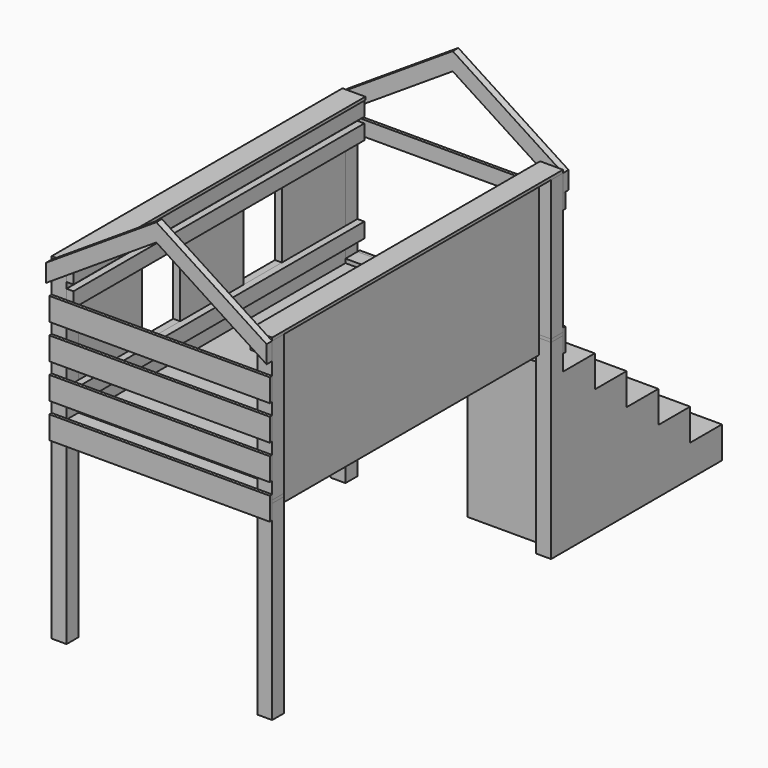
from build123d import *

# Parameters (mm, degrees)
F0_W      = 95.25
F0_H      = 95.25
F1_DEPTH  = 2133.6
F3_W      = 95.25
F3_H      = 95.25
F4_DEPTH  = 19.05
F3_W_2    = 1219.2
F3_H_2    = 2133.6
F5_W      = 44.45
F5_H      = 2324.1
F6_DEPTH  = 95.25
F8_W      = 44.45
F8_H      = 2324.1
F9_DEPTH  = 95.25
F11_W     = 44.45
F11_H     = 2324.1
F12_DEPTH = 95.25
F13_W     = 2133.6
F13_H     = 133.35
F14_DEPTH = 25.4
F15_W     = 1219.2
F15_H     = 95.25
F16_DEPTH = 44.45
F17_W     = 44.45
F17_H     = 2324.1
F18_DEPTH = 95.25
F20_DEPTH = 44.45
F22_DEPTH = 44.45
F23_W     = 1409.7
F23_H     = 146.05
F24_DEPTH = 19.05
F25_W     = 2133.6
F25_H     = 1009.65
F26_DEPTH = 19.05
F27_W     = 1314.45
F27_H     = 95.25
F28_DEPTH = 19.05
F27_H_2   = 146.05
F29_W     = 146.05
F29_H     = 2324.1
F30_DEPTH = 19.05
F32_DEPTH = 609.6
F34_DEPTH = 609.6
F35_W     = 393.7
F35_H     = 546.1
F35_W_2   = 304.8
F35_H_2   = 457.2
F36_DEPTH = 19.05


with BuildPart() as f1:
    # F0 (on Top) → F1 (new body)
    with BuildSketch(Plane.XY):
        with Locations((47.625, 47.625)):
            Rectangle(F0_W, F0_H)
    extrude(amount=F1_DEPTH)


with BuildPart() as f1b:
    # F0 (on Top) → F1, piece 2 (new body)
    with BuildSketch(Plane.XY):
        with Locations((1362.075, 47.625)):
            Rectangle(F0_W, F0_H)
    extrude(amount=F1_DEPTH)

    # F31 (on face) → F32 (join)
    with BuildSketch(Plane.YZ.offset(1409.7)):
        Polygon((349.25, 1016), (95.25, 1016), (95.25, 0), (1365.25, 0), (1365.25, 203.2), (1111.25, 203.2), (1111.25, 406.4), (857.25, 406.4), (857.25, 609.6), (603.25, 609.6), (603.25, 812.8), (349.25, 812.8), align=None)
    extrude(amount=-F32_DEPTH)


with BuildPart() as f1c:
    # F0 (on Top) → F1, piece 3 (new body)
    with BuildSketch(Plane.XY):
        with Locations((1362.075, -2181.225)):
            Rectangle(F0_W, F0_H)
    extrude(amount=F1_DEPTH)


with BuildPart() as f1d:
    # F0 (on Top) → F1, piece 4 (new body)
    with BuildSketch(Plane.XY):
        with Locations((47.625, -2181.225)):
            Rectangle(F0_W, F0_H)
    extrude(amount=F1_DEPTH)


with BuildPart() as f4:
    # F3 (on offset) → F4 (new body)
    with BuildSketch(Plane.XY.offset(1219.2)):
        with Locations((47.625, -2181.225)):
            Rectangle(F3_W, F3_H)
    extrude(amount=F4_DEPTH)


with BuildPart() as f4b:
    # F3 (on offset) → F4, piece 2 (new body)
    with BuildSketch(Plane.XY.offset(1219.2)):
        with Locations((47.625, 47.625)):
            Rectangle(F3_W, F3_H)
    extrude(amount=F4_DEPTH)


with BuildPart() as f4c:
    # F3 (on offset) → F4, piece 3 (new body)
    with BuildSketch(Plane.XY.offset(1219.2)):
        with Locations((1362.075, 47.625)):
            Rectangle(F3_W, F3_H)
    extrude(amount=F4_DEPTH)


with BuildPart() as f4d:
    # F3 (on offset) → F4, piece 4 (new body)
    with BuildSketch(Plane.XY.offset(1219.2)):
        with Locations((1362.075, -2181.225)):
            Rectangle(F3_W, F3_H)
    extrude(amount=F4_DEPTH)


with BuildPart() as f4e:
    # F3 (on offset) → F4, piece 5 (new body)
    with BuildSketch(Plane.XY.offset(1219.2)):
        with Locations((704.85, -1066.8)):
            Rectangle(F3_W_2, F3_H_2)
    extrude(amount=F4_DEPTH)


with BuildPart() as f6:
    # F5 (on offset) → F6 (new body)
    with BuildSketch(Plane.XY.offset(1219.2)):
        with Locations((117.475, -1066.8)):
            Rectangle(F5_W, F5_H)
    extrude(amount=-F6_DEPTH)


with BuildPart() as f6b:
    # F5 (on offset) → F6, piece 2 (new body)
    with BuildSketch(Plane.XY.offset(1219.2)):
        with Locations((1292.225, -1066.8)):
            Rectangle(F5_W, F5_H)
    extrude(amount=-F6_DEPTH)


with BuildPart() as f9:
    # F8 (on offset) → F9 (new body)
    with BuildSketch(Plane.XY.offset(1447.8)):
        with Locations((117.475, -1066.8)):
            Rectangle(F8_W, F8_H)
    extrude(amount=-F9_DEPTH)


with BuildPart() as f12:
    # F11 (on offset) → F12 (new body)
    with BuildSketch(Plane.XY.offset(1905)):
        with Locations((117.475, -1066.8)):
            Rectangle(F11_W, F11_H)
    extrude(amount=F12_DEPTH)


with BuildPart() as f14:
    # F13 (on face) → F14 (new body)
    with BuildSketch(Plane(origin=(95.25, 0, 0), x_dir=(0, -1, 0), z_dir=(-1, 0, 0))):
        with Locations((1066.8, 2066.925)):
            Rectangle(F13_W, F13_H)
        Polygon((2133.6, 2000.25), (0, 2000.25), (0, 1905), (508, 1905), (812.8, 1905), (1320.8, 1905), (1625.6, 1905), (2133.6, 1905), align=None)
        Polygon((508, 1905), (0, 1905), (0, 1117.6), (2133.6, 1117.6), (2133.6, 1905), (1625.6, 1905), (1625.6, 1447.8), (1320.8, 1447.8), (1320.8, 1905), (812.8, 1905), (812.8, 1447.8), (508, 1447.8), align=None)
    extrude(amount=F14_DEPTH)

    # F35 (on face) → F36 (join)
    with BuildSketch(Plane(origin=(69.85, 0, 0), x_dir=(0, -1, 0), z_dir=(-1, 0, 0))):
        with Locations((660.4, 1676.4)):
            Rectangle(F35_W, F35_H)
        with Locations((660.4, 1676.4)):
            Rectangle(F35_W_2, F35_H_2, mode=Mode.SUBTRACT)
        with Locations((1473.2, 1676.4)):
            Rectangle(F35_W, F35_H)
        with Locations((1473.2, 1676.4)):
            Rectangle(F35_W_2, F35_H_2, mode=Mode.SUBTRACT)
    extrude(amount=F36_DEPTH)


with BuildPart() as f16:
    # F15 (on offset) → F16 (new body)
    with BuildSketch(Plane.XY.offset(1219.2)):
        with Locations((704.85, 47.625)):
            Rectangle(F15_W, F15_H)
    extrude(amount=F16_DEPTH)


with BuildPart() as f16b:
    # F15 (on offset) → F16, piece 2 (new body)
    with BuildSketch(Plane.XY.offset(1219.2)):
        with Locations((704.85, -2181.225)):
            Rectangle(F15_W, F15_H)
    extrude(amount=F16_DEPTH)


with BuildPart() as f18:
    # F17 (on face) → F18 (new body)
    with BuildSketch(Plane.XY.offset(2133.6)):
        with Locations((117.475, -1066.8)):
            Rectangle(F17_W, F17_H)
    extrude(amount=-F18_DEPTH)


with BuildPart() as f18b:
    # F17 (on face) → F18, piece 2 (new body)
    with BuildSketch(Plane.XY.offset(2133.6)):
        with Locations((1292.225, -1066.8)):
            Rectangle(F17_W, F17_H)
    extrude(amount=-F18_DEPTH)


with BuildPart() as f20:
    # F19 (on face) → F20 (new body)
    with BuildSketch(Plane.XZ.offset(2228.85)):
        Polygon((704.85, 2590.8), (0, 2133.6), (0, 2020.0667518361), (704.85, 2477.2667518361), align=None)
        Polygon((1409.7, 2133.6), (704.85, 2590.8), (704.85, 2477.2667518361), (1409.7, 2020.0667518361), align=None)
    extrude(amount=F20_DEPTH)


with BuildPart() as f22:
    # F21 (on face) → F22 (new body)
    with BuildSketch(Plane(origin=(0, 95.25, 0), x_dir=(-1, 0, 0), z_dir=(0, 1, 0))):
        Polygon((0, 2133.6), (-704.85, 2590.8), (-1409.7, 2133.6), (-1409.7, 2020.0667518361), (-704.85, 2477.2667518361), (0, 2020.0667518361), align=None)
    extrude(amount=F22_DEPTH)


with BuildPart() as f24:
    # F23 (on face) → F24 (new body)
    with BuildSketch(Plane.XZ.offset(2228.85)):
        with Locations((704.85, 1196.975)):
            Rectangle(F23_W, F23_H)
    extrude(amount=F24_DEPTH)


with BuildPart() as f24b:
    # F23 (on face) → F24, piece 2 (new body)
    with BuildSketch(Plane.XZ.offset(2228.85)):
        with Locations((704.85, 1419.225)):
            Rectangle(F23_W, F23_H)
    extrude(amount=F24_DEPTH)


with BuildPart() as f24c:
    # F23 (on face) → F24, piece 3 (new body)
    with BuildSketch(Plane.XZ.offset(2228.85)):
        with Locations((704.85, 1641.475)):
            Rectangle(F23_W, F23_H)
    extrude(amount=F24_DEPTH)


with BuildPart() as f24d:
    # F23 (on face) → F24, piece 4 (new body)
    with BuildSketch(Plane.XZ.offset(2228.85)):
        with Locations((704.85, 1863.725)):
            Rectangle(F23_W, F23_H)
    extrude(amount=F24_DEPTH)


with BuildPart() as f26:
    # F25 (on face) → F26 (new body)
    with BuildSketch(Plane.YZ.offset(1314.45)):
        with Locations((-1066.8, 1628.775)):
            Rectangle(F25_W, F25_H)
    extrude(amount=F26_DEPTH)


with BuildPart() as f28:
    # F27 (on face) → F28 (new body)
    with BuildSketch(Plane(origin=(0, 95.25, 0), x_dir=(-1, 0, 0), z_dir=(0, 1, 0))):
        with Locations((-752.475, 1972.4417518361)):
            Rectangle(F27_W, F27_H)
    extrude(amount=F28_DEPTH)


with BuildPart() as f28b:
    # F27 (on face) → F28, piece 2 (new body)
    with BuildSketch(Plane(origin=(0, 95.25, 0), x_dir=(-1, 0, 0), z_dir=(0, 1, 0))):
        with Locations((-752.475, 1190.625)):
            Rectangle(F27_W, F27_H_2)
    extrude(amount=F28_DEPTH)


with BuildPart() as f30:
    # F29 (on face) → F30 (new body)
    with BuildSketch(Plane.XY.offset(2133.6)):
        with Locations((1336.675, -1066.8)):
            Rectangle(F29_W, F29_H)
    extrude(amount=F30_DEPTH)


with BuildPart() as f30b:
    # F29 (on face) → F30, piece 2 (new body)
    with BuildSketch(Plane.XY.offset(2133.6)):
        with Locations((73.025, -1066.8)):
            Rectangle(F29_W, F29_H)
    extrude(amount=F30_DEPTH)


with BuildPart() as f34:
    # F33 (on face) → F34 (new body)
    with BuildSketch(Plane(origin=(800.1, 0, 0), x_dir=(0, -1, 0), z_dir=(-1, 0, 0))):
        Polygon((-114.3, 1263.65), (-1365.25, 203.2), (-1365.25, 0), (-114.3, 1060.45), align=None)
    extrude(amount=F34_DEPTH)


solid = Compound([f1.part, f1b.part, f1c.part, f1d.part, f4.part, f4b.part, f4c.part, f4d.part, f4e.part, f6.part, f6b.part, f9.part, f12.part, f14.part, f16.part, f16b.part, f18.part, f18b.part, f20.part, f22.part, f24.part, f24b.part, f24c.part, f24d.part, f26.part, f28.part, f28b.part, f30.part, f30b.part, f34.part])
